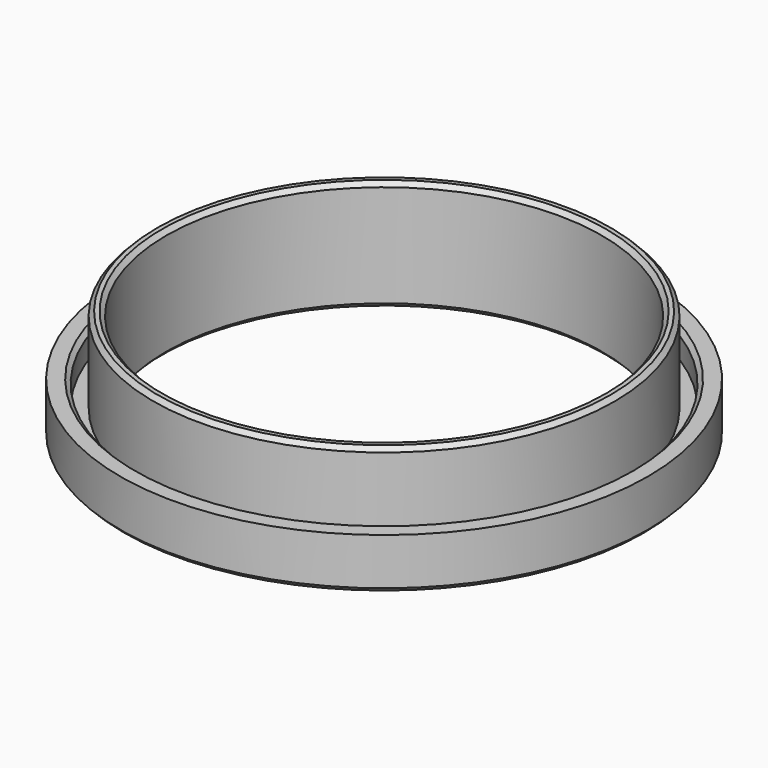
from build123d import *

# Parameters (mm, degrees)
F0_R     = 31
F0_R_2   = 28.75
F0_R_3   = 27.1
F0_R_4   = 25.6
F1_DEPTH = 3
F2_DEPTH = 10
F3_DEPTH = 3
F4_DEPTH = 25
F5_SIZE  = 0.5


with BuildPart() as f1:
    # F0 (on Top) → F1 (new body)
    with BuildSketch(Plane.XY):
        Circle(F0_R)
        Circle(F0_R_2, mode=Mode.SUBTRACT)
        Circle(F0_R_2)
        Circle(F0_R_3, mode=Mode.SUBTRACT)
        Circle(F0_R_3)
        Circle(F0_R_4, mode=Mode.SUBTRACT)
    extrude(amount=-F1_DEPTH)

    # F0 (on Top) → F2 (join)
    with BuildSketch(Plane.XY):
        Circle(F0_R_3)
        Circle(F0_R_4, mode=Mode.SUBTRACT)
    extrude(amount=F2_DEPTH)

    # F0 (on Top) → F3 (join)
    with BuildSketch(Plane.XY):
        Circle(F0_R)
        Circle(F0_R_2, mode=Mode.SUBTRACT)
    extrude(amount=F3_DEPTH)

    # F0 (on Top) → F4 (cut)
    with BuildSketch(Plane.XY):
        Circle(F0_R_4)
    extrude(amount=F4_DEPTH, mode=Mode.SUBTRACT)

    # F5
    f5_edges = [f1.edges().sort_by_distance(p)[0] for p in [
        (-25.6, 0, 10),
        (-27.1, 0, 10),
        (-28.75, 0, 3),
        (-25.6, 0, -3),
        (-31, 0, -3),
    ]]
    chamfer(f5_edges, length=F5_SIZE)


solid = f1.part
